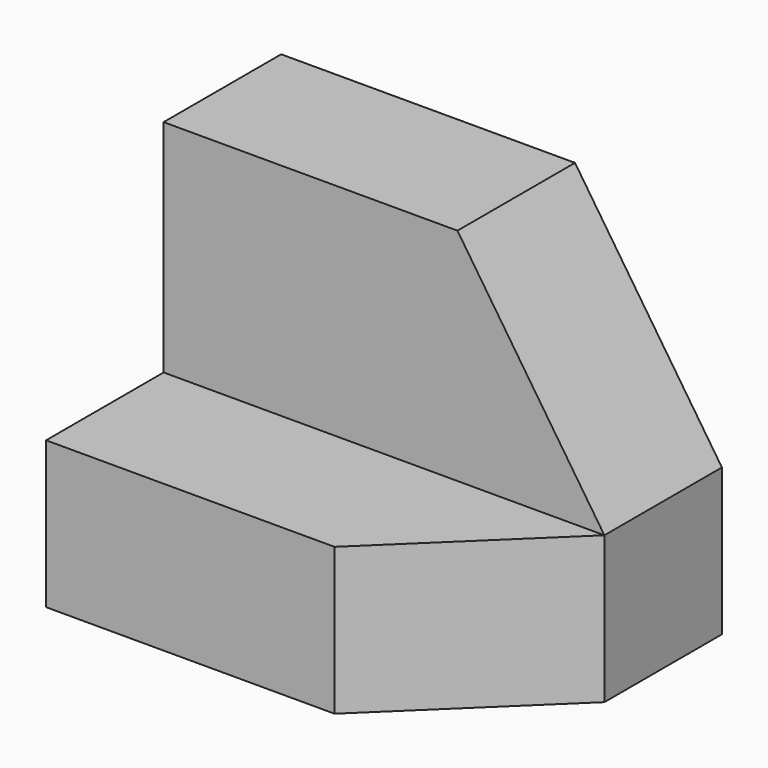
from build123d import *

# Parameters (mm, degrees)
F1_DEPTH = 25.4
F2_W     = 38.1
F2_H     = 12.7
F3_DEPTH = 12.7
F4_W     = 38.1
F4_H     = 12.7
F5_DEPTH = 12.7
F7_DEPTH = 12.7


with BuildPart() as f1:
    # F0 (on Front) → F1 (new body)
    with BuildSketch(Plane.XZ):
        Polygon((0, 31.75), (0, 0), (38.1, 0), (38.1, 12.7), (25.4, 31.75), align=None)
    extrude(amount=F1_DEPTH)

    # F2 (on face) → F3 (cut)
    with BuildSketch(Plane.XZ.offset(25.4)):
        with Locations((19.05, 6.35)):
            Rectangle(F2_W, F2_H)
        Polygon((0, 31.75), (0, 12.7), (38.1, 12.7), (25.4, 31.75), align=None)
    extrude(amount=-F3_DEPTH, mode=Mode.SUBTRACT)

    # F4 (on face) → F5 (join)
    with BuildSketch(Plane.XZ.offset(12.7)):
        with Locations((19.05, 6.35)):
            Rectangle(F4_W, F4_H)
    extrude(amount=F5_DEPTH)

    # F6 (on face) → F7 (cut)
    with BuildSketch(Plane.XY.offset(12.7)):
        Polygon((38.1, -25.4), (38.1, -12.7), (24.9308124185, -25.4), align=None)
    extrude(amount=-F7_DEPTH, mode=Mode.SUBTRACT)


solid = f1.part
